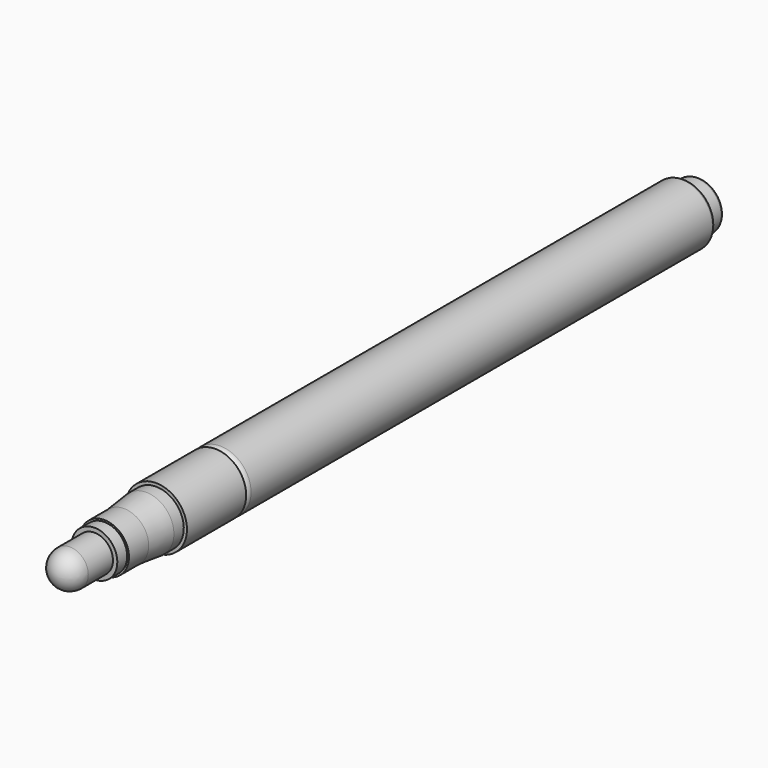
from build123d import *

# Parameters (mm, degrees)
F0_R      = 4
F1_DEPTH  = 3
F2_R      = 5
F3_DEPTH  = 95
F4_R      = 1
F5_R      = 5
F6_DEPTH  = 12
F9_R      = 3
F10_DEPTH = 8
F11_R     = 3
F12_R     = 0.5


with BuildPart() as f1:
    # F0 (on Front) → F1 (new body)
    with BuildSketch(Plane.XZ):
        Circle(F0_R)
    extrude(amount=F1_DEPTH)

    # F2 (on face) → F3 (join)
    with BuildSketch(Plane.XZ.offset(3)):
        Circle(F2_R)
    extrude(amount=F3_DEPTH)

    # F4
    f4_edges = [f1.edges().sort_by_distance(p)[0] for p in [
        (-5, -98, 0),
    ]]
    fillet(f4_edges, radius=F4_R)

    # F12
    f12_edges = [f1.edges().sort_by_distance(p)[0] for p in [
        (-5, -3, 0),
        (-4, 0, 0),
    ]]
    fillet(f12_edges, radius=F12_R)


with BuildPart() as f6:
    # F5 (on face) → F6 (new body)
    with BuildSketch(Plane.XZ.offset(98)):
        Circle(F5_R)
    extrude(amount=F6_DEPTH)

    # F7 (on Right) → F8 (revolve)
    with BuildSketch(Plane.YZ):
        Polygon((-112, -4.485713318), (-110, -4.485713318), (-110, 0), (-122.5, 0), (-122.5, -3.7083302159), (-120.5, -3.7083302159), (-120.5, -4), (-116.5, -4), align=None)
    revolve(axis=Axis((0, -116.25, 0), (0, 1, 0)))


with BuildPart() as f10:
    # F9 (on face) → F10 (new body)
    with BuildSketch(Plane.XZ.offset(122.5)):
        Circle(F9_R)
    extrude(amount=F10_DEPTH)

    # F11
    f11_edges = [f10.edges().sort_by_distance(p)[0] for p in [
        (-3, -130.5, 0),
    ]]
    fillet(f11_edges, radius=F11_R)


solid = Compound([f1.part, f6.part, f10.part])
